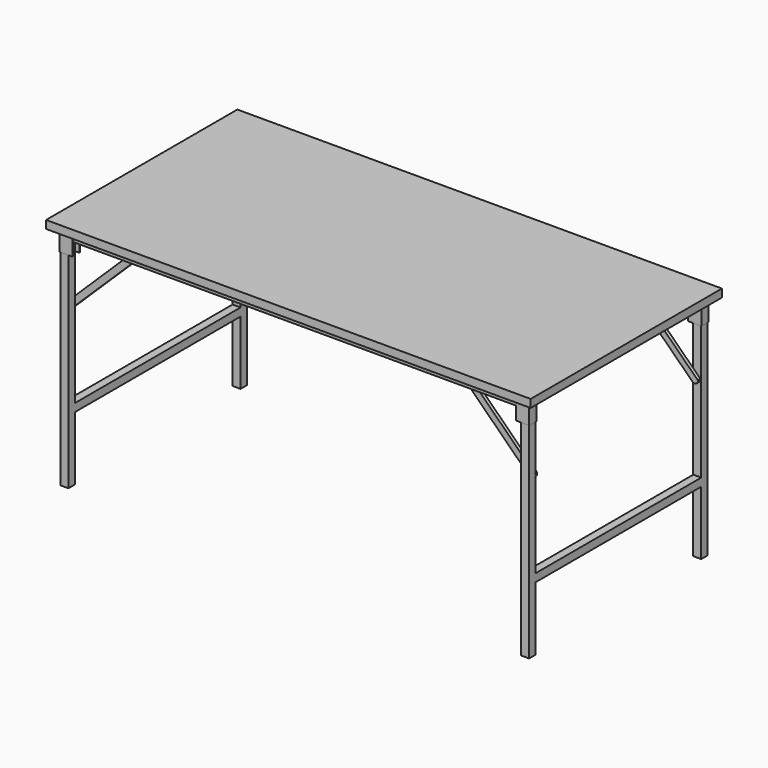
from build123d import *

# Parameters (mm, degrees)
F0_W      = 1520
F0_H      = 750
F1_DEPTH  = 25
F2_W      = 1470
F2_H      = 25
F3_DEPTH  = 25
F5_DEPTH  = 65
F7_W      = 25
F7_H      = 25
F8_DEPTH  = 675
F10_DEPTH = 65
F12_W     = 25
F12_H     = 25
F13_DEPTH = 675
F15_W     = 25
F15_H     = 25
F16_DEPTH = 675
F18_W     = 25
F18_H     = 25
F19_DEPTH = 650
F21_W     = 25
F21_H     = 25
F22_DEPTH = 650
F24_DEPTH = 10
F26_DEPTH = 10
F29_DEPTH = 10
F31_DEPTH = 10


with BuildPart() as f1:
    # F0 (on Top) → F1 (new body)
    with BuildSketch(Plane.XY):
        with Locations((-760, 375)):
            Rectangle(F0_W, F0_H)
    extrude(amount=F1_DEPTH)

    # F2 (on face) → F3 (join)
    with BuildSketch(Plane(origin=(0, 0, 0), x_dir=(1, 0, 0), z_dir=(0, 0, -1))):
        with Locations((-760, -37.5)):
            Rectangle(F2_W, F2_H)
        with Locations((-760, -712.5)):
            Rectangle(F2_W, F2_H)
    extrude(amount=F3_DEPTH)

    # F4 (on face) → F5 (join)
    with BuildSketch(Plane(origin=(0, 0, 0), x_dir=(1, 0, 0), z_dir=(0, 0, -1))):
        Polygon((-65, -25), (-25, -25), (-25, -50), (-65, -50), (-65, -52), (-23, -52), (-23, -23), (-65, -23), align=None)
    extrude(amount=F5_DEPTH)

    # F7 (on offset) → F8 (join)
    with BuildSketch(Plane(origin=(0, 0, -35), x_dir=(1, 0, 0), z_dir=(0, 0, -1))):
        with Locations((-37.5, -37.523640207)):
            Rectangle(F7_W, F7_H)
    extrude(amount=F8_DEPTH)

    # F9 (on face) → F10 (join)
    with BuildSketch(Plane.XY):
        Polygon((-1495, 724.9829173088), (-1455, 724.9829173088), (-1455, 726.9829173088), (-1497, 726.9829173088), (-1497, 697.9829173088), (-1455, 697.9829173088), (-1455, 699.9829173088), (-1495, 699.9829173088), align=None)
        Polygon((-65.0490959734, 726.9829173088), (-65.0490959734, 724.9829173088), (-25.0490959734, 724.9829173088), (-25.0490959734, 699.9829173088), (-65.0490959734, 699.9829173088), (-65.0490959734, 697.9829173088), (-23.0490959734, 697.9829173088), (-23.0490959734, 726.9829173088), align=None)
        Polygon((-1455, 25), (-1495, 25), (-1495, 50), (-1455, 50), (-1455, 52), (-1497, 52), (-1497, 23), (-1455, 23), align=None)
    extrude(amount=-F10_DEPTH)

    # F12 (on offset) → F13 (join)
    with BuildSketch(Plane(origin=(0, 0, -35), x_dir=(1, 0, 0), z_dir=(0, 0, -1))):
        with Locations((-1482.5, -37.5)):
            Rectangle(F12_W, F12_H)
    extrude(amount=F13_DEPTH)

    # F15 (on offset) → F16 (join)
    with BuildSketch(Plane(origin=(0, 0, -35), x_dir=(1, 0, 0), z_dir=(0, 0, -1))):
        with Locations((-37.5, -712.5)):
            Rectangle(F15_W, F15_H)
        with Locations((-1482.5, -712.5)):
            Rectangle(F15_W, F15_H)
    extrude(amount=F16_DEPTH)

    # F18 (on offset) → F19 (join)
    with BuildSketch(Plane(origin=(0, 50.023640207, 0), x_dir=(-1, 0, 0), z_dir=(0, 1, 0))):
        with Locations((37.5, -497.5)):
            Rectangle(F18_W, F18_H)
    extrude(amount=F19_DEPTH)

    # F21 (on offset) → F22 (join)
    with BuildSketch(Plane(origin=(0, 50, 0), x_dir=(-1, 0, 0), z_dir=(0, 1, 0))):
        with Locations((1482.5, -497.5)):
            Rectangle(F21_W, F21_H)
    extrude(amount=F22_DEPTH)

    # F23 (on face) → F24 (join)
    with BuildSketch(Plane.XZ.offset(-700)):
        with BuildLine():
            Line((-50, -190.7444713597), (-234.6244849475, -9.2794851613))
            ThreePointArc((-234.6244849475, -9.2794851613), (-246.6039118675, -7.7336055545), (-251.332803081, -18.8481906111))
            Line((-251.332803081, -18.8481906111), (-50, -216.7355636904))
            Line((-50, -216.7355636904), (-50, -190.7444713597))
        make_face()
        with BuildLine():
            Line((-27.8014624786, -212.5631229112), (-50, -190.7444713597))
            Line((-50, -190.7444713597), (-50, -216.7355636904))
            Line((-50, -216.7355636904), (-44.5097806121, -222.131828361))
            ThreePointArc((-44.5097806121, -222.131828361), (-32.5303536921, -223.6777079678), (-27.8014624786, -212.5631229112))
        make_face()
    extrude(amount=F24_DEPTH)

    # F25 (on face) → F26 (join)
    with BuildSketch(Plane(origin=(0, 50.023640207, 0), x_dir=(-1, 0, 0), z_dir=(0, 1, 0))):
        with BuildLine():
            Line((50, -188.6229664357), (50, -216.7160920101))
            Line((50, -216.7160920101), (250.9788283543, -18.4630064225))
            ThreePointArc((250.9788283543, -18.4630064225), (251.07538107, -4.3212004002), (236.9335750477, -4.2246476845))
            Line((236.9335750477, -4.2246476845), (50, -188.6229664357))
        make_face()
        with BuildLine():
            ThreePointArc((30.4773733467, -207.880820631), (30.380820631, -222.0226266533), (44.5226266533, -222.119179369))
            Line((44.5226266533, -222.119179369), (50, -216.7160920101))
            Line((50, -216.7160920101), (50, -188.6229664357))
            Line((50, -188.6229664357), (30.4773733467, -207.880820631))
        make_face()
    extrude(amount=F26_DEPTH)

    # F28 (on offset) → F29 (join)
    with BuildSketch(Plane.XZ.offset(-700)):
        with BuildLine():
            ThreePointArc((-1268.519621658, -19.0091897955), (-1268.3869301053, -4.8676766886), (-1282.5284432121, -4.7349851358))
            Line((-1282.5284432121, -4.7349851358), (-1489.504410777, -207.8628976702))
            ThreePointArc((-1489.504410777, -207.8628976702), (-1489.6371023298, -222.004410777), (-1475.495589223, -222.1371023298))
            Line((-1475.495589223, -222.1371023298), (-1268.519621658, -19.0091897955))
        make_face()
    extrude(amount=F29_DEPTH)

    # F30 (on face) → F31 (join)
    with BuildSketch(Plane(origin=(0, 50, 0), x_dir=(-1, 0, 0), z_dir=(0, 1, 0))):
        with BuildLine():
            ThreePointArc((1475.506314972, -222.1476128693), (1489.6476128693, -221.993685028), (1489.493685028, -207.8523871307))
            Line((1489.493685028, -207.8523871307), (1470, -188.7785095141))
            Line((1470, -188.7785095141), (1470, -216.7598794703))
            Line((1470, -216.7598794703), (1475.506314972, -222.1476128693))
        make_face()
        with BuildLine():
            Line((1470, -216.7598794703), (1470, -188.7785095141))
            Line((1470, -188.7785095141), (1282.212911818, -5.0355213195))
            ThreePointArc((1282.212911818, -5.0355213195), (1268.0716139207, -5.1894491609), (1268.225541762, -19.3307470582))
            Line((1268.225541762, -19.3307470582), (1470, -216.7598794703))
        make_face()
    extrude(amount=F31_DEPTH)


solid = f1.part
